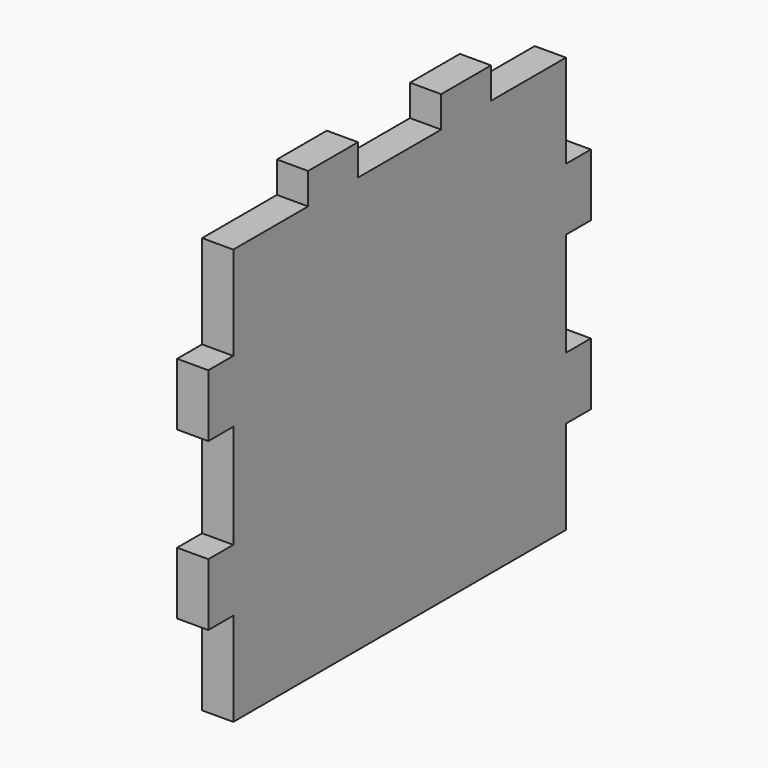
from build123d import *

# Parameters (mm, degrees)
F0_W     = 19.05
F0_H     = 254
F1_DEPTH = 254
F2_W     = 19.05
F2_H     = 38.1
F3_DEPTH = 19.05
F4_W     = 19.05
F4_H     = 38.1
F5_DEPTH = 19.05
F6_W     = 19.05
F6_H     = 38.1
F7_DEPTH = 19.05


with BuildPart() as f1:
    # F0 (on Top) → F1 (new body)
    with BuildSketch(Plane.XY):
        with Locations((47.761202, 2.701772)):
            Rectangle(F0_W, F0_H)
    extrude(amount=F1_DEPTH)

    # F2 (on face) → F3 (join)
    with BuildSketch(Plane.XZ.offset(124.298228)):
        with Locations((47.761202, 76.2)):
            Rectangle(F2_W, F2_H)
        with Locations((47.761202, 177.8)):
            Rectangle(F2_W, F2_H)
    extrude(amount=F3_DEPTH)

    # F4 (on face) → F5 (join)
    with BuildSketch(Plane.XY.offset(254)):
        with Locations((47.761202, 53.501772)):
            Rectangle(F4_W, F4_H)
        with Locations((47.761202, -48.098228)):
            Rectangle(F4_W, F4_H)
    extrude(amount=F5_DEPTH)

    # F6 (on face) → F7 (join)
    with BuildSketch(Plane(origin=(0, 129.701772, 0), x_dir=(-1, 0, 0), z_dir=(0, 1, 0))):
        with Locations((-47.761202, 76.2)):
            Rectangle(F6_W, F6_H)
        with Locations((-47.761202, 177.8)):
            Rectangle(F6_W, F6_H)
    extrude(amount=F7_DEPTH)


solid = f1.part
